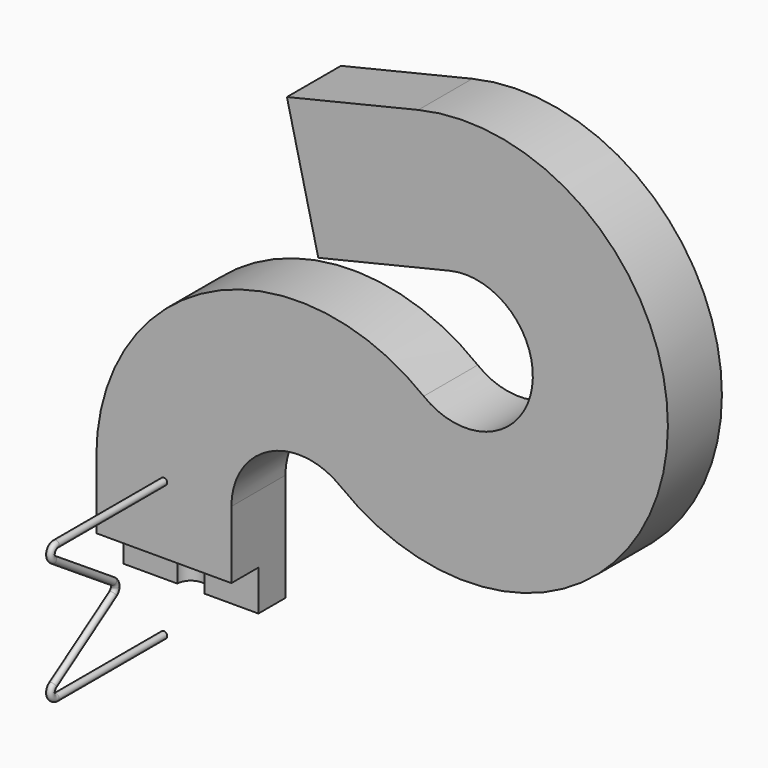
from build123d import *

# Parameters (mm, degrees)
F0_W     = 100
F0_H     = 50
F1_DEPTH = 30
F2_R     = 10
F3_DEPTH = 30
F5_DEPTH = 30
F2_W     = 100
F2_H     = 50
F8_R     = 2.5


with BuildPart() as f1:
    # F0 (on Top) → F1 (new body)
    with BuildSketch(Plane.XY):
        with Locations((50, -25)):
            Rectangle(F0_W, F0_H)
    extrude(amount=F1_DEPTH)

    # F2 (on face) → F3 (cut)
    with BuildSketch(Plane.XY.offset(30)):
        with Locations((50, -25)):
            Circle(F2_R)
    extrude(amount=-F3_DEPTH, mode=Mode.SUBTRACT)

    # F4 (on face) → F5 (cut, through all)
    with BuildSketch(Plane.XY.offset(30)):
        with BuildLine():
            Line((40, -25), (0, -25))
            Line((0, -25), (0, -50))
            Line((0, -50), (100, -50))
            Line((100, -50), (100, -25))
            Line((100, -25), (60, -25))
            ThreePointArc((60, -25), (50, -35), (40, -25))
        make_face()
    extrude(amount=-F5_DEPTH, mode=Mode.SUBTRACT)

    # F7: sweep along a path in F6
    with BuildLine(Plane.XZ.offset(25)) as f7_path:
        Line((50, 30), (50, 80))
        ThreePointArc((50, 80), (106.1830318727, 169.8892279649), (211.6014660826, 158.7734687345))
        ThreePointArc((211.6014660826, 158.7734687345), (370.9057959914, 216.2361326939), (250, 334.8178166619))
        Line((250, 334.8178166619), (152.7291208072, 311.6148844966))
    # F2 (on face) → F7 (sweep)
    with BuildSketch(Plane.XY.offset(30)):
        with Locations((50, -25)):
            Rectangle(F2_W, F2_H)
        with Locations((50, -25)):
            Circle(F2_R, mode=Mode.SUBTRACT)
    sweep(path=f7_path.line)


with BuildPart() as f11:
    # F11: sweep along a path in F10
    with BuildLine(Plane(origin=(50, 0, 0), x_dir=(0, -1, 0), z_dir=(-1, 0, 0))) as f11_path:
        Line((50, 80), (150, 80))
        ThreePointArc((150, 80), (154.7886357398, 76.4383906812), (152.7551716094, 70.8275871006))
        Line((152.7551716094, 70.8275871006), (97.2448283906, 34.1724128994))
        ThreePointArc((97.2448283906, 34.1724128994), (95.5968273911, 32.3689809996), (95, 30))
    # F8 (on face) → F11 (sweep)
    with BuildSketch(Plane.XZ.offset(50)):
        with Locations((50, 80)):
            Circle(F8_R)
    sweep(path=f11_path.line)

    # F12: F11 across face


with BuildPart() as f11_1:
    add(f11.part)
    add(f11.part.mirror(Plane(origin=(50, -95, 30), x_dir=(1, 0, 0), z_dir=(0, 0, -1))))


solid = Compound([f1.part, f11_1.part])
